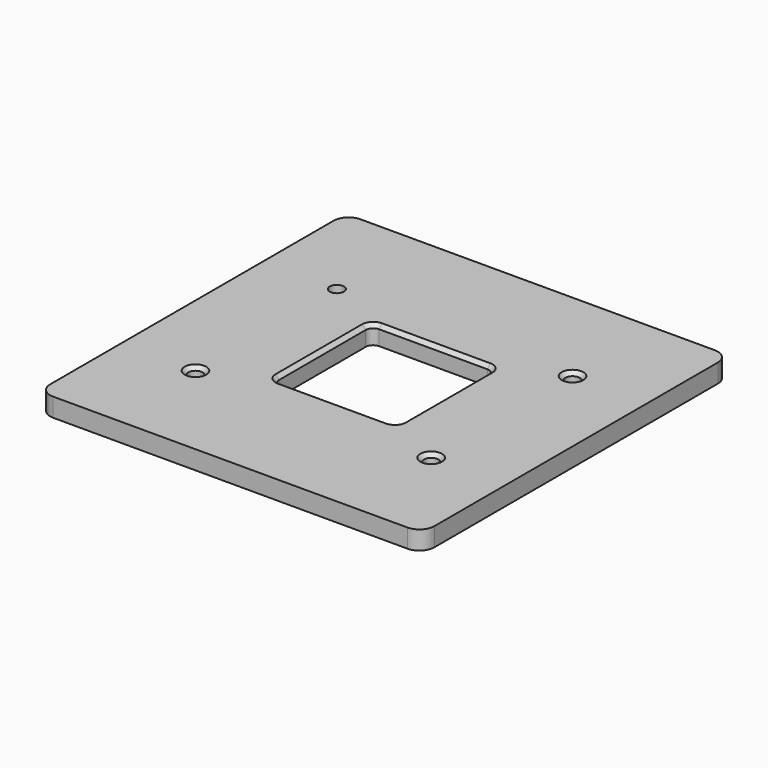
from build123d import *

# Parameters (mm, degrees)
CYLINDER006_R     = 1.9
CYLINDER006_DEPTH = 5
CYLINDER007_R     = 1.9
CYLINDER007_DEPTH = 5
CYLINDER008_R     = 1.9
CYLINDER008_DEPTH = 5
CYLINDER005_R     = 1.9
CYLINDER005_DEPTH = 5
BOX009_W          = 33
BOX009_H          = 33
BOX009_DEPTH      = 5
BOX010_W          = 72
BOX010_H          = 72
BOX010_DEPTH      = 5
FILLET002_R       = 2
FILLET003_R       = 4
CHAMFER001_SIZE   = 1
BOX013_W          = 69.4
BOX013_H          = 69.4
BOX013_DEPTH      = 5
BOX012_W          = 103
BOX012_H          = 103
BOX012_DEPTH      = 5
FILLET005_R       = 4
FILLET006_R       = 2


with BuildPart() as cilindro003:
    # Cylinder006 → Cylinder006 (new body)
    with BuildSketch(Plane(origin=(31.6, 23.7, -48), x_dir=(1, 0, 0), z_dir=(0, 0, 1))):
        Circle(CYLINDER006_R)
    extrude(amount=CYLINDER006_DEPTH)


with BuildPart() as cilindro004:
    # Cylinder007 → Cylinder007 (new body)
    with BuildSketch(Plane(origin=(-31.6, 23.7, -48), x_dir=(1, 0, 0), z_dir=(0, 0, 1))):
        Circle(CYLINDER007_R)
    extrude(amount=CYLINDER007_DEPTH)


with BuildPart() as cilindro005:
    # Cylinder008 → Cylinder008 (new body)
    with BuildSketch(Plane(origin=(-31.6, -23.7, -48), x_dir=(1, 0, 0), z_dir=(0, 0, 1))):
        Circle(CYLINDER008_R)
    extrude(amount=CYLINDER008_DEPTH)


with BuildPart() as compound003:
    # Cylinder005 → Cylinder005 (new body)
    with BuildSketch(Plane(origin=(31.6, -23.7, -48), x_dir=(1, 0, 0), z_dir=(0, 0, 1))):
        Circle(CYLINDER005_R)
    extrude(amount=CYLINDER005_DEPTH)

    # Compound003: union Cilindro003, Cilindro004, Cilindro005
    add(cilindro003.part)
    add(cilindro004.part)
    add(cilindro005.part)


with BuildPart() as cubo008:
    # Box009 → Box009 (new body)
    with BuildSketch(Plane(origin=(-16.5, -16.5, -48), x_dir=(1, 0, 0), z_dir=(0, 0, 1))):
        with Locations((16.5, 16.5)):
            Rectangle(BOX009_W, BOX009_H)
    extrude(amount=BOX009_DEPTH)


with BuildPart() as chamfer001:
    # Box010 → Box010 (new body)
    with BuildSketch(Plane(origin=(-36, -36, -48), x_dir=(1, 0, 0), z_dir=(0, 0, 1))):
        with Locations((36, 36)):
            Rectangle(BOX010_W, BOX010_H)
    extrude(amount=BOX010_DEPTH)

    # Cut003: cut Cubo008
    add(cubo008.part, mode=Mode.SUBTRACT)

    # Fillet002
    fillet002_edges = [chamfer001.edges().sort_by_distance(p)[0] for p in [
        (-16.5, -16.5, -45.5),
        (-16.5, 16.5, -45.5),
        (16.5, -16.5, -45.5),
        (16.5, 16.5, -45.5),
    ]]
    fillet(fillet002_edges, radius=FILLET002_R)

    # Fillet003
    fillet003_edges = [chamfer001.edges().sort_by_distance(p)[0] for p in [
        (-36, -36, -45.5),
        (-36, 36, -45.5),
        (36, 36, -45.5),
        (36, -36, -45.5),
    ]]
    fillet(fillet003_edges, radius=FILLET003_R)

    # Cut006: cut Compound003
    add(compound003.part, mode=Mode.SUBTRACT)

    # Chamfer001
    chamfer001_edges = [chamfer001.edges().sort_by_distance(p)[0] for p in [
        (-33.5, -23.7, -43),
        (29.7, -23.7, -43),
        (-16.5, 0, -43),
        (29.7, 23.7, -43),
    ]]
    chamfer(chamfer001_edges, length=CHAMFER001_SIZE)


with BuildPart() as cubo012:
    # Box013 → Box013 (new body)
    with BuildSketch(Plane(origin=(-34.7, -34.7, -48), x_dir=(1, 0, 0), z_dir=(0, 0, 1))):
        with Locations((34.7, 34.7)):
            Rectangle(BOX013_W, BOX013_H)
    extrude(amount=BOX013_DEPTH)


with BuildPart() as fusion002:
    # Box012 → Box012 (new body)
    with BuildSketch(Plane(origin=(-51.5, -51.5, -48), x_dir=(1, 0, 0), z_dir=(0, 0, 1))):
        with Locations((51.5, 51.5)):
            Rectangle(BOX012_W, BOX012_H)
    extrude(amount=BOX012_DEPTH)

    # Cut005: cut Cubo012
    add(cubo012.part, mode=Mode.SUBTRACT)

    # Fillet005
    fillet005_edges = [fusion002.edges().sort_by_distance(p)[0] for p in [
        (-51.5, -51.5, -45.5),
        (-51.5, 51.5, -45.5),
        (51.5, -51.5, -45.5),
        (51.5, 51.5, -45.5),
    ]]
    fillet(fillet005_edges, radius=FILLET005_R)

    # Fillet006
    fillet006_edges = [fusion002.edges().sort_by_distance(p)[0] for p in [
        (-34.7, -34.7, -45.5),
        (-34.7, 34.7, -45.5),
        (34.7, -34.7, -45.5),
        (34.7, 34.7, -45.5),
    ]]
    fillet(fillet006_edges, radius=FILLET006_R)

    # Fusion002: union Chamfer001
    add(chamfer001.part)


solid = fusion002.part
